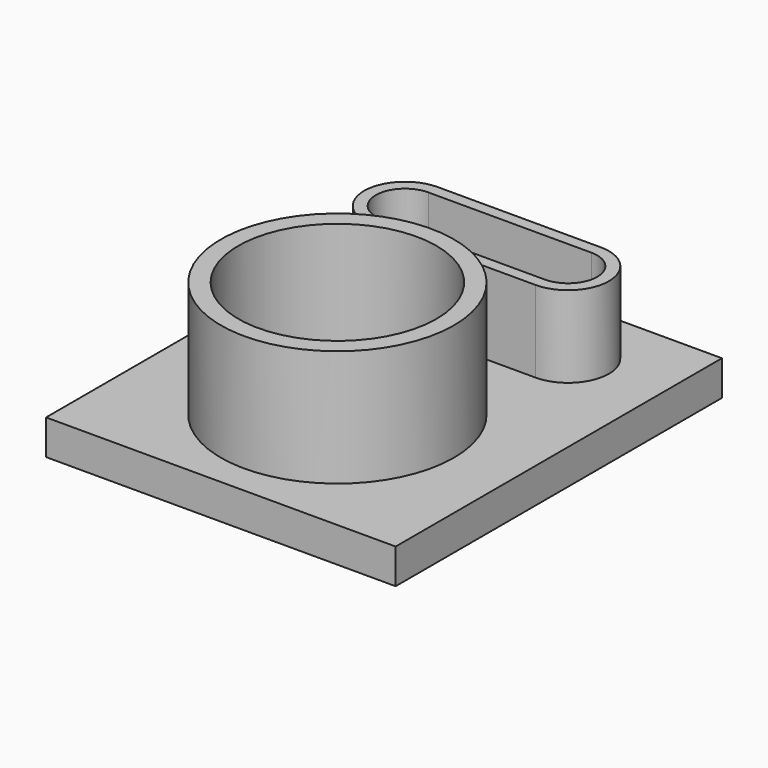
from build123d import *

# Parameters (mm, degrees)
SKETCH_W      = 30
SKETCH_H      = 35
PAD_DEPTH     = 3
SKETCH001_R   = 10
SKETCH001_R_2 = 8.5
PAD001_DEPTH  = 10
PAD002_DEPTH  = 7


with BuildPart() as part:
    # Sketch → Pad (new body)
    with BuildSketch(Plane.XY):
        Rectangle(SKETCH_W, SKETCH_H)
    extrude(amount=-PAD_DEPTH)

    # Sketch001 → Pad001 (join)
    with BuildSketch(Plane.XY):
        with Locations((0, -5)):
            Circle(SKETCH001_R)
        with Locations((0, -5)):
            Circle(SKETCH001_R_2, mode=Mode.SUBTRACT)
    extrude(amount=PAD001_DEPTH)

    # Sketch002 → Pad002 (join)
    with BuildSketch(Plane.XY):
        with BuildLine():
            ThreePointArc((-7, 14.5), (-10.5, 11), (-7, 7.5))
            Line((-7, 7.5), (7, 7.5))
            ThreePointArc((7, 7.5), (10.5, 11), (7, 14.5))
            Line((-7, 14.5), (7, 14.5))
        make_face()
        with BuildLine():
            ThreePointArc((-7, 13.5), (-9.5, 11), (-7, 8.5))
            Line((-7, 8.5), (7, 8.5))
            ThreePointArc((7, 8.5), (9.5, 11), (7, 13.5))
            Line((-7, 13.5), (7, 13.5))
        make_face(mode=Mode.SUBTRACT)
    extrude(amount=PAD002_DEPTH)


solid = part.part
